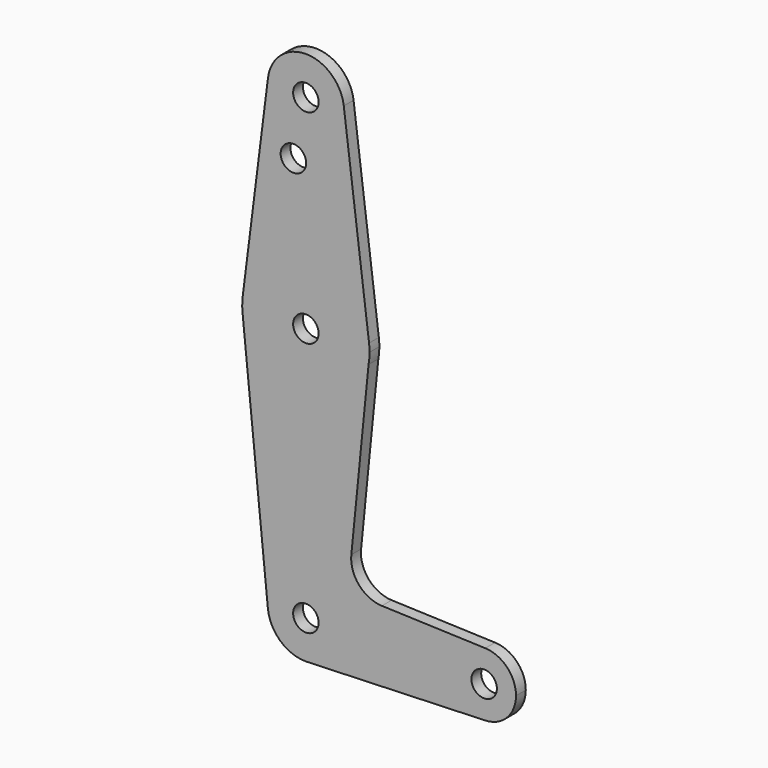
from build123d import *

# Parameters (mm, degrees)
F0_R     = 3.175
F1_DEPTH = 3.048


with BuildPart() as f1:
    # F0 (on Front) → F1 (new body)
    with BuildSketch(Plane.XZ):
        with BuildLine():
            ThreePointArc((9.450293, 115.490625), (9.506305, 114.896483), (9.525, 114.3))
            ThreePointArc((9.525, 114.3), (-0.596483, 104.793695), (-9.450293, 115.490625))
            Line((-9.450293, 115.490625), (-15.750488, 65.484375))
            ThreePointArc((-15.750488, 65.484375), (0, 79.375), (15.750488, 65.484375))
            Line((15.750488, 65.484375), (9.450293, 115.490625))
        make_face()
        with Locations((-3.114868, 99.89214)):
            Circle(F0_R, mode=Mode.SUBTRACT)
        with BuildLine():
            ThreePointArc((-9.450293, 115.490625), (-0.596483, 104.793695), (9.525, 114.3))
            ThreePointArc((9.525, 114.3), (9.506305, 114.896483), (9.450293, 115.490625))
            ThreePointArc((9.450293, 115.490625), (0, 123.825), (-9.450293, 115.490625))
        make_face()
        with Locations((0, 114.3)):
            Circle(F0_R, mode=Mode.SUBTRACT)
        with BuildLine():
            ThreePointArc((15.875, 63.5), (15.843841, 64.494139), (15.750488, 65.484375))
            ThreePointArc((15.750488, 65.484375), (0, 79.375), (-15.750488, 65.484375))
            ThreePointArc((-15.750488, 65.484375), (-15.873744, 63.699705), (-15.795426, 61.912499))
            ThreePointArc((-15.795426, 61.912499), (-0.590169, 47.635974), (15.633813, 60.743277))
            ThreePointArc((15.633813, 60.743277), (15.814588, 62.116373), (15.875, 63.5))
        make_face()
        with Locations((0, 63.5)):
            Circle(F0_R, mode=Mode.SUBTRACT)
        with BuildLine():
            ThreePointArc((15.633813, 60.743277), (-0.590169, 47.635974), (-15.795426, 61.912499))
            Line((-15.795426, 61.912499), (-9.477927, -0.945792))
            ThreePointArc((-9.477927, -0.945792), (-7.061667, 6.392064), (0, 9.525))
            ThreePointArc((0, 9.525), (0.338886, 9.51897), (0.677344, 9.500886))
            ThreePointArc((0.677344, 9.500886), (6.970557, 6.491299), (9.525, 0))
            ThreePointArc((9.525, 0), (9.513224, -0.473481), (9.477927, -0.945792))
            ThreePointArc((9.477927, -0.945792), (6.639261, -6.829776), (0.677344, -9.500886))
            Line((0.677344, -9.500886), (44.732405, -7.932475))
            ThreePointArc((44.732405, -7.932475), (36.5125, 0), (44.732405, 7.932475))
            Line((44.732405, 7.932475), (18.955124, 8.850176))
            ThreePointArc((18.955124, 8.850176), (13.24985, 11.565814), (11.327071, 17.584763))
            Line((11.327071, 17.584763), (15.633813, 60.743277))
        make_face()
        with BuildLine():
            ThreePointArc((0, 9.525), (-7.061667, 6.392064), (-9.477927, -0.945792))
            ThreePointArc((-9.477927, -0.945792), (-6.392064, -7.061667), (0, -9.525))
            Line((0, -9.525), (0.677344, -9.500886))
            ThreePointArc((0.677344, -9.500886), (6.639261, -6.829776), (9.477927, -0.945792))
            ThreePointArc((9.477927, -0.945792), (9.513224, -0.473481), (9.525, 0))
            ThreePointArc((9.525, 0), (6.970557, 6.491299), (0.677344, 9.500886))
            Line((0.677344, 9.500886), (0, 9.525))
        make_face()
        Circle(F0_R, mode=Mode.SUBTRACT)
        with BuildLine():
            ThreePointArc((52.3875, 0), (50.161633, 5.51191), (44.732405, 7.932475))
            ThreePointArc((44.732405, 7.932475), (36.5125, 0), (44.732405, -7.932475))
            ThreePointArc((44.732405, -7.932475), (50.161633, -5.51191), (52.3875, 0))
        make_face()
        with Locations((44.45, 0)):
            Circle(F0_R, mode=Mode.SUBTRACT)
    extrude(amount=F1_DEPTH)


solid = f1.part
